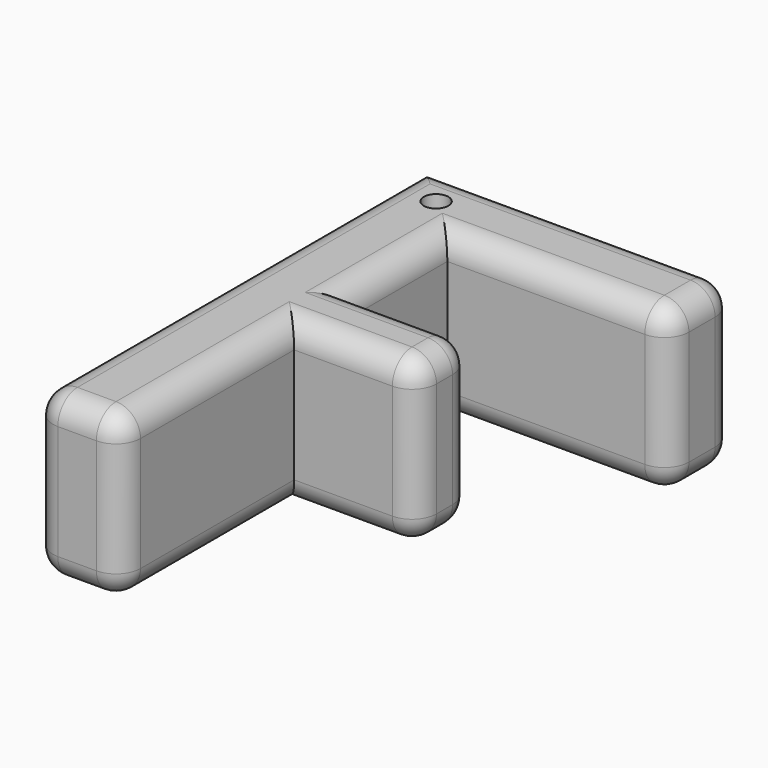
from build123d import *

# Parameters (mm, degrees)
F1_DEPTH = 20
F2_R     = 3
F3_R     = 1.5
F4_DEPTH = 25


with BuildPart() as f1:
    # F0 (on Top) → F1 (new body)
    with BuildSketch(Plane.XY):
        Polygon((0, 5.021903), (0, 0), (0, -3.424607), (15.019838, -3.424607), (15.019838, 5.021903), align=None)
        Polygon((0, -3.424607), (0, 0), (0, 5.021903), (0, 13.150787), (0, 20), (14.283885, 20), (27.16307, 20), (27.16307, 30), (14.283885, 30), (-10.716115, 30), (-10.716115, 29), (-10.716115, -21), (-10.716115, -29.918844), (0, -29.918844), (0, -21), (0, -20), (0, -8.509332), align=None)
    extrude(amount=F1_DEPTH)

    # F2
    f2_edges = [f1.edges().sort_by_distance(p)[0] for p in [
        (13.581535, 20, 0),
        (27.16307, 25, 0),
        (8.223477, 30, 0),
        (-10.716115, 0.040578, 0),
        (-5.358057, -29.918844, 0),
        (0, -16.671725, 0),
        (7.509919, -3.424607, 0),
        (15.019838, 0.798648, 0),
        (7.509919, 5.021903, 0),
        (0, 12.510952, 0),
        (27.16307, 20, 10),
        (27.16307, 30, 10),
        (27.16307, 25, 20),
        (15.019838, -3.424607, 10),
        (15.019838, 5.021903, 10),
        (15.019838, 0.798648, 20),
        (-5.358057, -29.918844, 20),
        (-10.716115, -29.918844, 10),
        (0, -29.918844, 10),
        (13.581535, 20, 20),
        (0, 12.510952, 20),
        (8.223477, 30, 20),
        (-10.716115, 0.040578, 20),
        (0, -16.671725, 20),
        (7.509919, -3.424607, 20),
        (7.509919, 5.021903, 20),
    ]]
    fillet(f2_edges, radius=F2_R)

    # F3 (on face) → F4 (cut)
    with BuildSketch(Plane.XY.offset(20)):
        with Locations((-5.009224, 24.547122)):
            Circle(F3_R)
    extrude(amount=-F4_DEPTH, mode=Mode.SUBTRACT)


solid = f1.part
